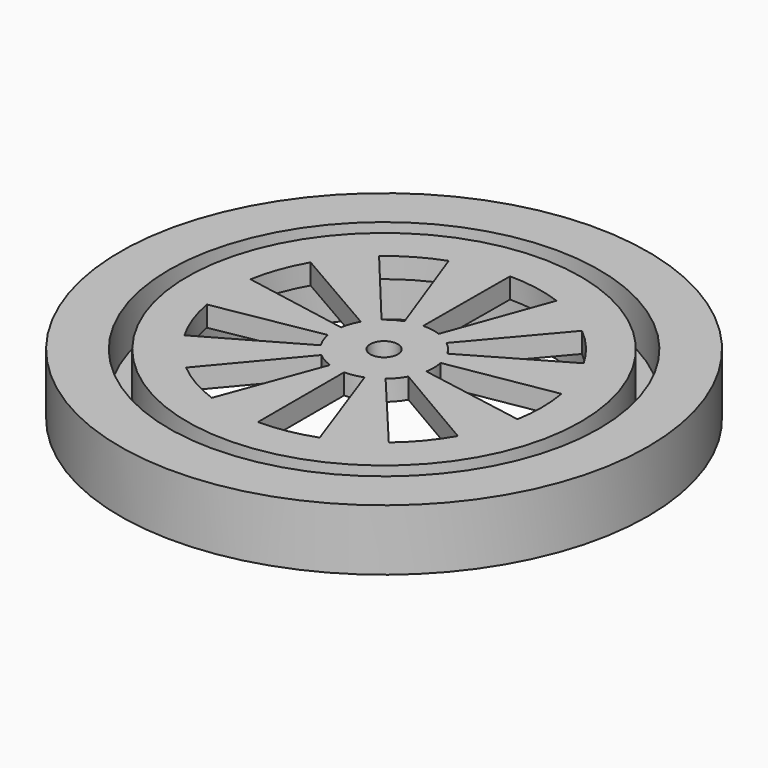
from build123d import *

# Parameters (mm, degrees)
F0_R     = 64.725
F1_DEPTH = 15
F2_R     = 52.725
F2_R_2   = 48.225
F3_DEPTH = 11
F4_R     = 41.225
F5_DEPTH = 10
F7_DEPTH = 5
F8_D     = 6.7564


with BuildPart() as f1:
    # F0 (on Top) → F1 (new body)
    with BuildSketch(Plane.XY):
        Circle(F0_R)
    extrude(amount=F1_DEPTH)

    # F2 (on face) → F3 (cut)
    with BuildSketch(Plane.XY.offset(15)):
        Circle(F2_R)
        Circle(F2_R_2, mode=Mode.SUBTRACT)
    extrude(amount=-F3_DEPTH, mode=Mode.SUBTRACT)

    # F4 (on face) → F5 (cut)
    with BuildSketch(Plane(origin=(0, 0, 0), x_dir=(1, 0, 0), z_dir=(0, 0, -1))):
        Circle(F4_R)
    extrude(amount=-F5_DEPTH, mode=Mode.SUBTRACT)

    # F6 (on face) → F7 (cut, through all)
    with BuildSketch(Plane(origin=(0, 0, 10), x_dir=(1, 0, 0), z_dir=(0, 0, -1))):
        with BuildLine():
            ThreePointArc((0, 12.2501222179), (2.2276802059, 12.0458679743), (4.3810732942, 11.4399165707))
            Line((4.3810732942, 11.4399165707), (13.2776884508, 36.3189443658))
            ThreePointArc((13.2776884508, 36.3189443658), (6.7421083146, 38.0776404983), (0, 38.6699202281))
            Line((0, 38.6699202281), (0, 12.2501222179))
        make_face()
        with BuildLine():
            Line((10.7095334794, 5.9473848881), (33.5166668905, 19.28719189))
            ThreePointArc((33.5166668905, 19.28719189), (29.6405901277, 24.8354212231), (24.8565455902, 29.6228775066))
            Line((24.8565455902, 29.6228775066), (7.8742267788, 9.3841380525))
            ThreePointArc((7.8742267788, 9.3841380525), (9.4494367246, 7.7957449895), (10.7095334794, 5.9473848881))
        make_face()
        with BuildLine():
            Line((12.0268839264, -2.3279942814), (38.0728243958, -6.7692520245))
            ThreePointArc((38.0728243958, -6.7692520245), (38.6699104016, -0.0275676574), (38.082437249, 6.7149611781))
            Line((38.082437249, 6.7149611781), (12.0640153355, 2.1272113993))
            ThreePointArc((12.0640153355, 2.1272113993), (12.249696781, -0.1020937159), (12.0268839264, -2.3279942814))
        make_face()
        with BuildLine():
            Line((7.7167217203, -9.5140790539), (24.8142842341, -29.6582876849))
            ThreePointArc((24.8142842341, -29.6582876849), (29.6051498304, -24.8776573246), (33.4891332798, -19.334960114))
            Line((33.4891332798, -19.334960114), (10.6089170402, -6.1250611089))
            ThreePointArc((10.6089170402, -6.1250611089), (9.3181875734, -7.952161637), (7.7167217203, -9.5140790539))
        make_face()
        with BuildLine():
            Line((-0.2041803405, -12.2484204999), (-0.0551353009, -38.6698809223))
            ThreePointArc((-0.0551353009, -38.6698809223), (6.687810629, -38.0872146453), (13.2258916588, -36.3378386847))
            Line((13.2258916588, -36.3378386847), (4.1897885567, -11.5113494519))
            ThreePointArc((4.1897885567, -11.5113494519), (2.0265948401, -12.0813247497), (-0.2041803405, -12.2484204999))
        make_face()
        with BuildLine():
            Line((-8.0295441508, -9.2515898679), (-24.8987564158, -29.5874071083))
            ThreePointArc((-24.8987564158, -29.5874071083), (-19.3588294925, -33.4753409412), (-13.2258916588, -36.3378386847))
            Line((-13.2258916588, -36.3378386847), (-4.1897885567, -11.5113494519))
            ThreePointArc((-4.1897885567, -11.5113494519), (-6.213264142, -10.5575017431), (-8.0295441508, -9.2515898679))
        make_face()
        with BuildLine():
            Line((-12.0977950145, -1.9258375168), (-38.0919726849, -6.660656681))
            ThreePointArc((-38.0919726849, -6.660656681), (-36.347258145, -13.1999831737), (-33.4891332798, -19.334960114))
            Line((-33.4891332798, -19.334960114), (-10.6089170402, -6.1250611089))
            ThreePointArc((-10.6089170402, -6.1250611089), (-11.5458677793, -4.0937063373), (-12.0977950145, -1.9258375168))
        make_face()
        with BuildLine():
            Line((-10.5053531389, 6.3010356118), (-33.4615315896, 19.3826890323))
            ThreePointArc((-33.4615315896, 19.3826890323), (-36.3284007567, 13.2517934222), (-38.082437249, 6.7149611781))
            Line((-38.082437249, 6.7149611781), (-12.0640153355, 2.1272113993))
            ThreePointArc((-12.0640153355, 2.1272113993), (-11.4760315646, 4.2855797602), (-10.5053531389, 6.3010356118))
        make_face()
        with BuildLine():
            Line((-3.9973397756, 11.5795841493), (-13.1740679801, 36.3566591329))
            ThreePointArc((-13.1740679801, 36.3566591329), (-19.3110809092, 33.5029085986), (-24.8565455902, 29.6228775066))
            Line((-24.8565455902, 29.6228775066), (-7.8742267788, 9.3841380525))
            ThreePointArc((-7.8742267788, 9.3841380525), (-6.036432639, 10.6595954589), (-3.9973397756, 11.5795841493))
        make_face()
    extrude(amount=-F7_DEPTH, mode=Mode.SUBTRACT)

    # F8 (through all)
    with Locations(Plane(origin=(0, 0, 10), x_dir=(1, 0, 0), z_dir=(0, 0, -1))):
        with Locations((0, 0)):
            Hole(F8_D / 2)


solid = f1.part
